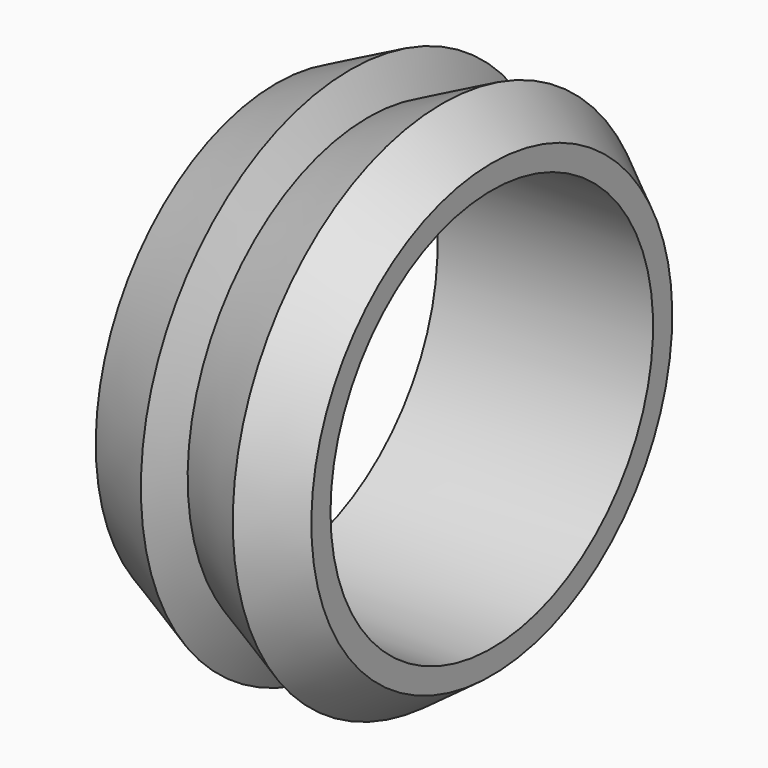
from build123d import *

# Parameters (mm, degrees)
F2_R     = 6.532772
F3_DEPTH = 25.4


with BuildPart() as f1:
    # F0 (on Front) → F1 (revolve)
    with BuildSketch(Plane.XZ):
        Polygon((0, 7.308824), (0, 0), (6.985, 0), (6.985, 7.308824), (2.977107, 7.308824), align=None)
        Polygon((2.40231, 8.483916), (0, 7.308824), (2.977107, 7.308824), align=None)
        Polygon((2.977107, 7.308824), (6.985, 7.308824), (5.379418, 8.483916), align=None)
    revolve(axis=Axis((-6.382353, 0, 0), (-1, 0, 0)))

    # F2 (on face) → F3 (cut)
    with BuildSketch(Plane(origin=(0, 0, 0), x_dir=(0, -1, 0), z_dir=(-1, 0, 0))):
        Circle(F2_R)
    extrude(amount=-F3_DEPTH, mode=Mode.SUBTRACT)


solid = f1.part
